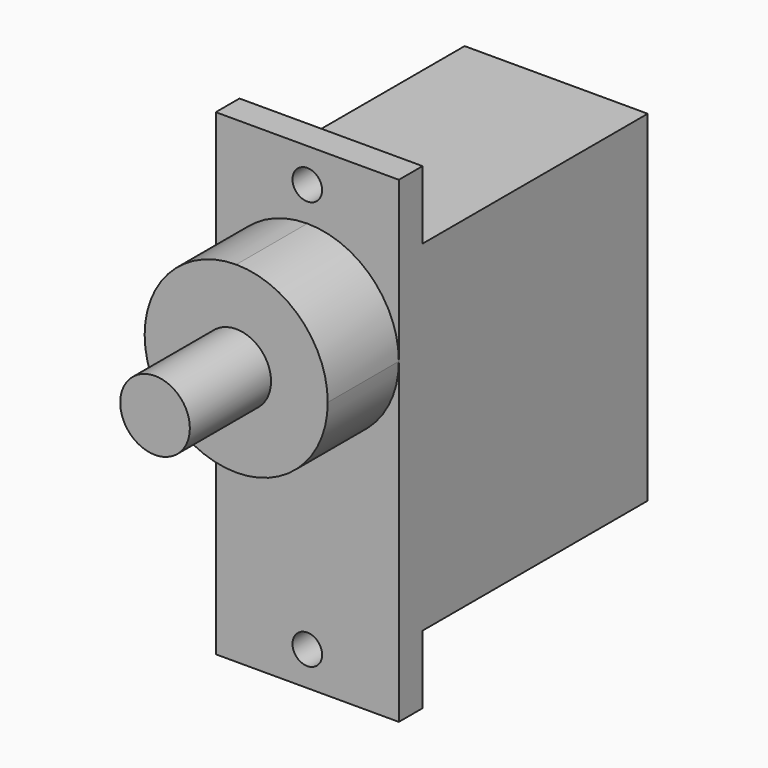
from build123d import *

# Parameters (mm, degrees)
F1_DEPTH = 21
F0_R     = 1
F0_W     = 12.36
F0_H     = 4.61
F2_DEPTH = 2
F3_DEPTH = 6
F4_R     = 2.35
F5_DEPTH = 6.85


with BuildPart() as f1:
    # F0 (on Front) → F1 (new body)
    with BuildSketch(Plane.XZ):
        with BuildLine():
            Line((0, 11.5), (-6.18, 11.5))
            Line((-6.18, 11.5), (-6.18, 5.32))
            ThreePointArc((-6.18, 5.32), (-4.3699199077, 9.6899199077), (0, 11.5))
        make_face()
        with BuildLine():
            ThreePointArc((6.18, 5.32), (0, -0.86), (-6.18, 5.32))
            Line((-6.18, 5.32), (-6.18, -11.5))
            Line((-6.18, -11.5), (6.18, -11.5))
            Line((6.18, -11.5), (6.18, 5.32))
        make_face()
        with BuildLine():
            Line((6.18, 5.32), (6.18, 11.5))
            Line((6.18, 11.5), (0, 11.5))
            ThreePointArc((0, 11.5), (4.3699199077, 9.6899199077), (6.18, 5.32))
        make_face()
        with BuildLine():
            ThreePointArc((0, 11.5), (-4.3699199077, 9.6899199077), (-6.18, 5.32))
            ThreePointArc((-6.18, 5.32), (0, -0.86), (6.18, 5.32))
            ThreePointArc((6.18, 5.32), (4.3699199077, 9.6899199077), (0, 11.5))
        make_face()
    extrude(amount=-F1_DEPTH)

    # F0 (on Front) → F2 (join)
    with BuildSketch(Plane.XZ):
        Polygon((6.18, 16.11), (-6.18, 16.11), (-6.18, 11.5), (0, 11.5), (6.18, 11.5), align=None)
        with Locations((0, 13.805)):
            Circle(F0_R, mode=Mode.SUBTRACT)
        with Locations((0, -13.805)):
            Rectangle(F0_W, F0_H)
        with Locations((0, -13.805)):
            Circle(F0_R, mode=Mode.SUBTRACT)
    extrude(amount=-F2_DEPTH)

    # F0 (on Front) → F3 (join)
    with BuildSketch(Plane.XZ):
        with BuildLine():
            ThreePointArc((0, 11.5), (-4.3699199077, 9.6899199077), (-6.18, 5.32))
            ThreePointArc((-6.18, 5.32), (0, -0.86), (6.18, 5.32))
            ThreePointArc((6.18, 5.32), (4.3699199077, 9.6899199077), (0, 11.5))
        make_face()
    extrude(amount=F3_DEPTH)

    # F4 (on face) → F5 (join)
    with BuildSketch(Plane.XZ.offset(6)):
        with Locations((0, 5.32)):
            Circle(F4_R)
    extrude(amount=F5_DEPTH)


solid = f1.part
